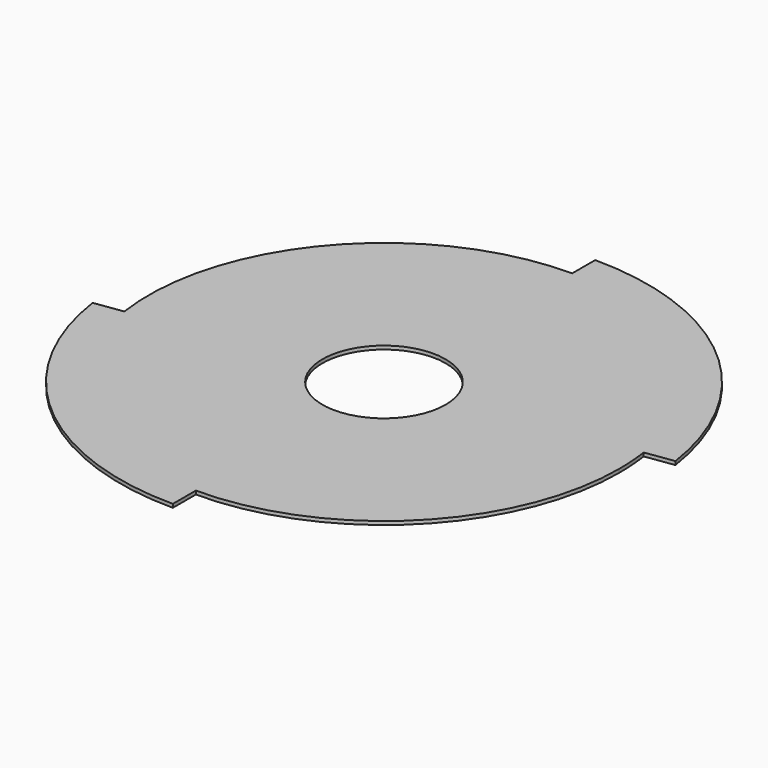
from build123d import *

# Parameters (mm, degrees)
F0_R     = 17.5
F1_DEPTH = 1


with BuildPart() as f1:
    # F0 (on Top) → F1 (new body)
    with BuildSketch(Plane.XY):
        with BuildLine():
            ThreePointArc((-74.232287, -10.703622), (-49.103097, -56.691144), (0, -75))
            Line((0, -75), (0, -66.83293))
            ThreePointArc((0, -66.83293), (-43.756051, -50.517803), (-66.148816, -9.538059))
            Line((-66.148816, -9.538059), (-74.232287, -10.703622))
        make_face()
        with BuildLine():
            Line((66.148816, 9.538059), (74.232287, 10.703622))
            ThreePointArc((74.232287, 10.703622), (49.103097, 56.691144), (0, 75))
            Line((0, 75), (0, 66.83293))
            ThreePointArc((0, 66.83293), (43.756051, 50.517803), (66.148816, 9.538059))
        make_face()
        with BuildLine():
            ThreePointArc((66.83293, 0), (66.661682, 4.781281), (66.148816, 9.538059))
            ThreePointArc((66.148816, 9.538059), (43.756051, 50.517803), (0, 66.83293))
            ThreePointArc((0, 66.83293), (-50.517803, 43.756051), (-66.148816, -9.538059))
            ThreePointArc((-66.148816, -9.538059), (-43.756051, -50.517803), (0, -66.83293))
            ThreePointArc((0, -66.83293), (47.258018, -47.258018), (66.83293, 0))
        make_face()
        Circle(F0_R, mode=Mode.SUBTRACT)
    extrude(amount=F1_DEPTH)


solid = f1.part
